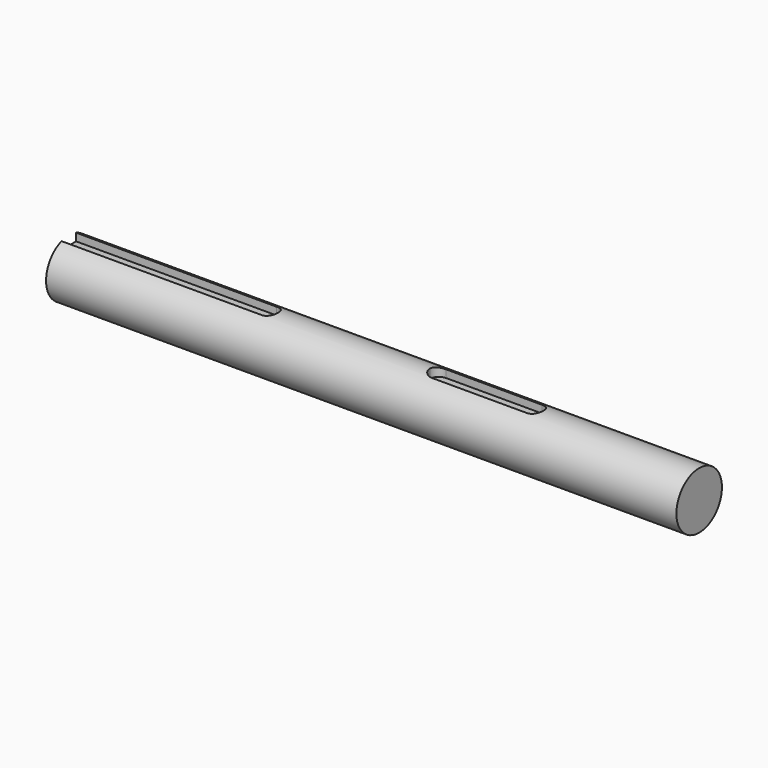
from build123d import *

# Parameters (mm, degrees)
F0_W     = 276.8
F0_H     = 12.5
F4_DEPTH = 4
F6_D     = 8
F6_DEPTH = 25
F6_TIP   = 2.4034424761
F8_DEPTH = 4


with BuildPart() as f1:
    # F0 (on Front) → F1 (revolve)
    with BuildSketch(Plane.XZ):
        with Locations((138.4, 6.25)):
            Rectangle(F0_W, F0_H)
    revolve(axis=Axis((138.4, 0, 0), (-1, 0, 0)))

    # F3 (on offset) → F4 (cut)
    with BuildSketch(Plane.XY.offset(12.5)):
        with BuildLine():
            Line((0, 4), (0, 0))
            Line((0, 0), (0, -4))
            Line((0, -4), (88, -4))
            ThreePointArc((88, -4), (90.8284271247, -2.8284271247), (92, 0))
            ThreePointArc((92, 0), (90.8284271247, 2.8284271247), (88, 4))
            Line((88, 4), (0, 4))
        make_face()
    extrude(amount=-F4_DEPTH, mode=Mode.SUBTRACT)

    # F6
    with Locations(Plane(origin=(0, 0, 0), x_dir=(0, -1, 0), z_dir=(-1, 0, 0))):
        with Locations((0, 0)):
            Hole(F6_D / 2, depth=F6_DEPTH)
            with Locations((0, 0, -(F6_DEPTH + F6_TIP / 2))):  # 118° drill point
                Cone(0, F6_D / 2, F6_TIP, mode=Mode.SUBTRACT)

    # F7 (on offset) → F8 (cut)
    with BuildSketch(Plane.XY.offset(12.5)):
        with BuildLine():
            ThreePointArc((208.5, 0), (207.3284271247, 2.8284271247), (204.5, 4))
            Line((204.5, 4), (162.5, 4))
            ThreePointArc((162.5, 4), (159.6715728753, 2.8284271247), (158.5, 0))
            ThreePointArc((158.5, 0), (159.6715728753, -2.8284271247), (162.5, -4))
            Line((162.5, -4), (204.5, -4))
            ThreePointArc((204.5, -4), (207.3284271247, -2.8284271247), (208.5, 0))
        make_face()
    extrude(amount=-F8_DEPTH, mode=Mode.SUBTRACT)


solid = f1.part
